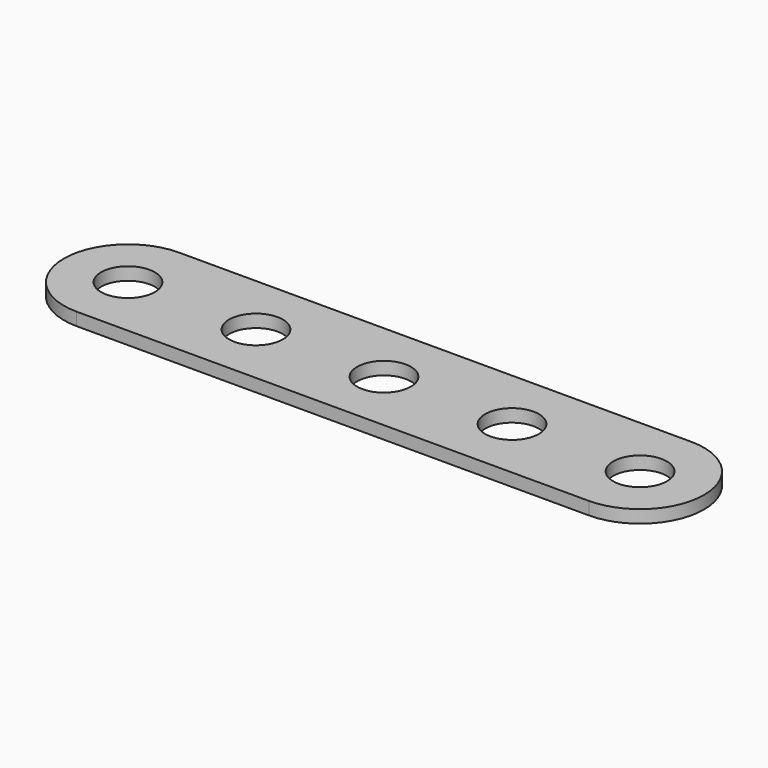
from build123d import *

# Parameters (mm, degrees)
SKETCH_R  = 2.1
PAD_DEPTH = 1


with BuildPart() as part:
    # Sketch → Pad (new body)
    with BuildSketch(Plane.XY):
        with BuildLine():
            ThreePointArc((0, 5), (-5, 0), (0, -5))
            Line((0, -5), (40, -5))
            ThreePointArc((40, -5), (45, 0), (40, 5))
            Line((0, 5), (40, 5))
        make_face()
        Circle(SKETCH_R, mode=Mode.SUBTRACT)
        with Locations((10, 0)):
            Circle(SKETCH_R, mode=Mode.SUBTRACT)
        with Locations((20, 0)):
            Circle(SKETCH_R, mode=Mode.SUBTRACT)
        with Locations((30, 0)):
            Circle(SKETCH_R, mode=Mode.SUBTRACT)
        with Locations((40, 0)):
            Circle(SKETCH_R, mode=Mode.SUBTRACT)
    extrude(amount=PAD_DEPTH)


solid = part.part
